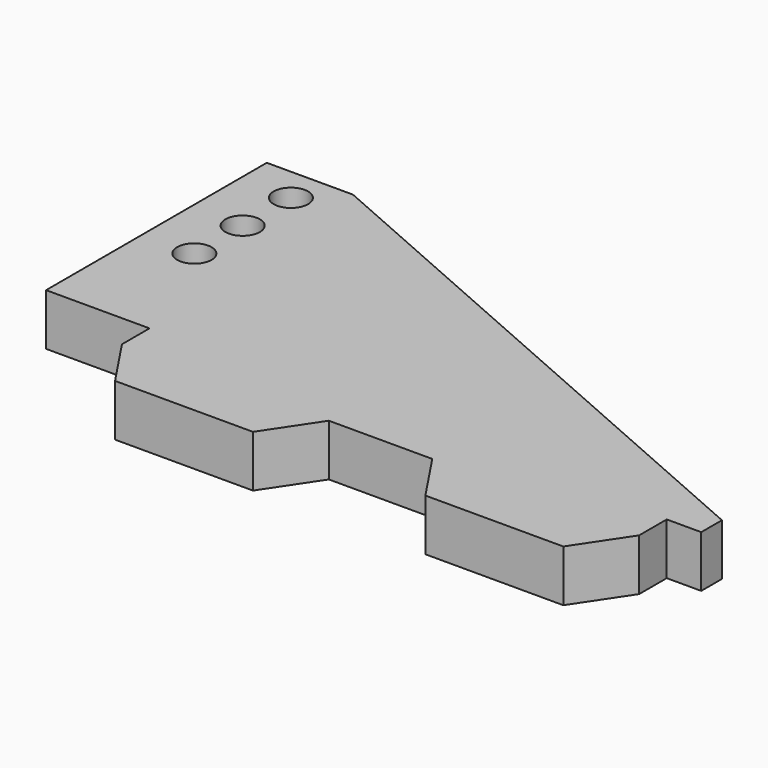
from build123d import *

# Parameters (mm, degrees)
SKETCH_R  = 1
PAD_DEPTH = 3


with BuildPart() as part:
    # Sketch → Pad (new body)
    with BuildSketch(Plane.XY):
        Polygon((0, 0), (8, 0), (10, 3), (16, 3), (18, 0), (26, 0), (28, 3), (28, 5), (30, 5), (30, 6.5), (-3, 21), (-8, 21), (-8, 5), (-2, 5), (-2, 3), align=None)
        with Locations((-5, 19)):
            Circle(SKETCH_R, mode=Mode.SUBTRACT)
        with Locations((-5, 15.5)):
            Circle(SKETCH_R, mode=Mode.SUBTRACT)
        with Locations((-5, 12)):
            Circle(SKETCH_R, mode=Mode.SUBTRACT)
    extrude(amount=PAD_DEPTH)


solid = part.part
